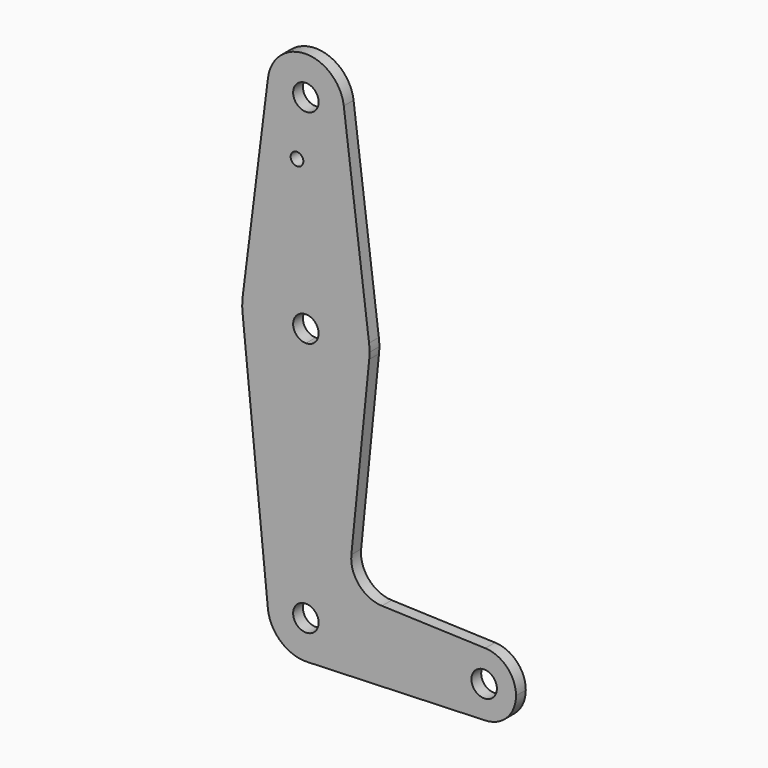
from build123d import *

# Parameters (mm, degrees)
F0_R     = 3.175
F0_R_2   = 1.5875
F1_DEPTH = 3.048


with BuildPart() as f1:
    # F0 (on Front) → F1 (new body)
    with BuildSketch(Plane.XZ):
        with BuildLine():
            ThreePointArc((-9.450293, 115.490625), (-0.596483, 104.793695), (9.525, 114.3))
            ThreePointArc((9.525, 114.3), (9.506305, 114.896483), (9.450293, 115.490625))
            ThreePointArc((9.450293, 115.490625), (0, 123.825), (-9.450293, 115.490625))
        make_face()
        with Locations((0, 114.3)):
            Circle(F0_R, mode=Mode.SUBTRACT)
        with BuildLine():
            ThreePointArc((9.450293, 115.490625), (9.506305, 114.896483), (9.525, 114.3))
            ThreePointArc((9.525, 114.3), (-0.596483, 104.793695), (-9.450293, 115.490625))
            Line((-9.450293, 115.490625), (-15.750488, 65.484375))
            ThreePointArc((-15.750488, 65.484375), (-10.500326, 75.40625), (0, 79.375))
            ThreePointArc((0, 79.375), (10.500326, 75.40625), (15.750488, 65.484375))
            Line((15.750488, 65.484375), (9.450293, 115.490625))
        make_face()
        with Locations((-2.21969, 100.0252)):
            Circle(F0_R_2, mode=Mode.SUBTRACT)
        with BuildLine():
            ThreePointArc((15.875, 63.5), (15.843841, 64.494139), (15.750488, 65.484375))
            ThreePointArc((15.750488, 65.484375), (10.500326, 75.40625), (0, 79.375))
            Line((0, 79.375), (0, 66.675))
            ThreePointArc((0, 66.675), (2.245064, 65.745064), (3.175, 63.5))
            ThreePointArc((3.175, 63.5), (2.245064, 61.254936), (0, 60.325))
            Line((0, 60.325), (0, 47.625))
            ThreePointArc((0, 47.625), (10.649274, 51.726785), (15.795426, 61.9125))
            ThreePointArc((15.795426, 61.9125), (15.855094, 62.705253), (15.875, 63.5))
        make_face()
        with BuildLine():
            ThreePointArc((0, 79.375), (-10.500326, 75.40625), (-15.750488, 65.484375))
            ThreePointArc((-15.750488, 65.484375), (-15.873744, 63.699705), (-15.795426, 61.9125))
            ThreePointArc((-15.795426, 61.9125), (-10.649274, 51.726785), (0, 47.625))
            Line((0, 47.625), (0, 60.325))
            ThreePointArc((0, 60.325), (-3.175, 63.5), (0, 66.675))
            Line((0, 66.675), (0, 79.375))
        make_face()
        with BuildLine():
            ThreePointArc((0, 47.625), (-10.649274, 51.726785), (-15.795426, 61.9125))
            Line((-15.795426, 61.9125), (-9.477255, -0.9525))
            ThreePointArc((-9.477255, -0.9525), (-7.063929, 6.389564), (0, 9.525))
            Line((0, 9.525), (0, 47.625))
        make_face()
        with BuildLine():
            Line((11.341187, 17.593382), (15.795426, 61.9125))
            ThreePointArc((15.795426, 61.9125), (10.649274, 51.726785), (0, 47.625))
            Line((0, 47.625), (0, 9.525))
            ThreePointArc((0, 9.525), (6.735192, 6.735192), (9.525, 0))
            ThreePointArc((9.525, 0), (6.854408, -6.613827), (0.340179, -9.518923))
            Line((0.340179, -9.518923), (44.733482, -7.932436))
            ThreePointArc((44.733482, -7.932436), (36.5125, 0), (44.733482, 7.932436))
            Line((44.733482, 7.932436), (18.9676, 8.853234))
            ThreePointArc((18.9676, 8.853234), (13.2612, 11.571359), (11.341187, 17.593382))
        make_face()
        with BuildLine():
            ThreePointArc((3.175, 0), (2.245064, 2.245064), (0, 3.175))
            ThreePointArc((0, 3.175), (-2.245064, -2.245064), (3.175, 0))
        make_face()
        with BuildLine():
            ThreePointArc((0, 9.525), (-7.063929, 6.389564), (-9.477255, -0.9525))
            ThreePointArc((-9.477255, -0.9525), (-6.262383, -7.17692), (0.340179, -9.518923))
            ThreePointArc((0.340179, -9.518923), (6.854408, -6.613827), (9.525, 0))
            ThreePointArc((9.525, 0), (6.735192, 6.735192), (0, 9.525))
        make_face()
        with BuildLine():
            ThreePointArc((3.175, 0), (-2.245064, -2.245064), (0, 3.175))
            ThreePointArc((0, 3.175), (2.245064, 2.245064), (3.175, 0))
        make_face(mode=Mode.SUBTRACT)
        with BuildLine():
            ThreePointArc((44.733482, 7.932436), (36.5125, 0), (44.733482, -7.932436))
            ThreePointArc((44.733482, -7.932436), (50.162007, -5.511523), (52.3875, 0))
            ThreePointArc((52.3875, 0), (50.162007, 5.511523), (44.733482, 7.932436))
        make_face()
        with Locations((44.45, 0)):
            Circle(F0_R, mode=Mode.SUBTRACT)
    extrude(amount=F1_DEPTH)


solid = f1.part
